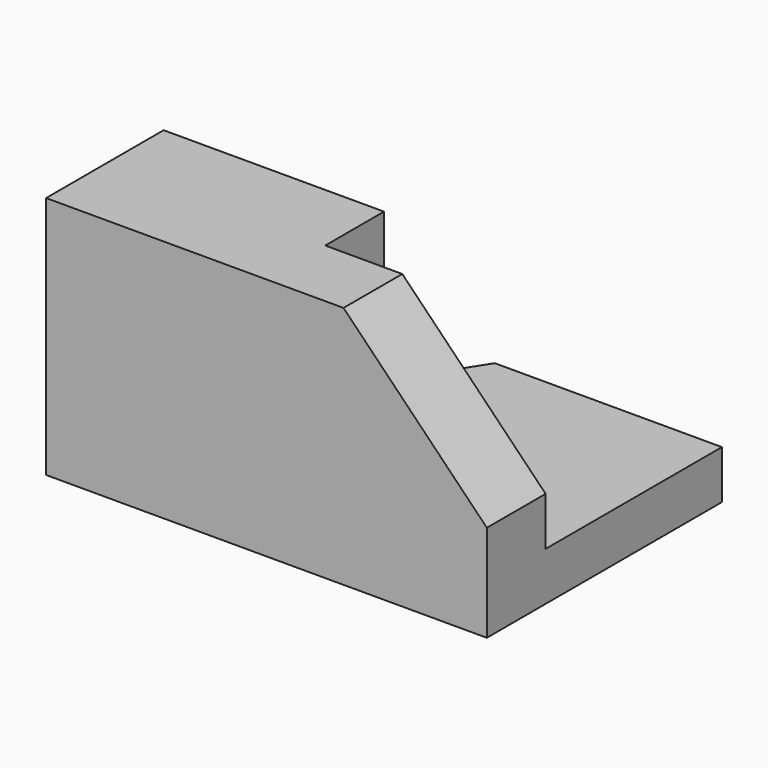
from build123d import *

# Parameters (mm, degrees)
F0_W      = 60
F0_H      = 33.1892187767
F1_DEPTH  = 40
F3_DEPTH  = 41.91
F5_DEPTH  = 30
F6_DEPTH  = 20
F8_DEPTH  = 25.4
F10_DEPTH = 25.4


with BuildPart() as f1:
    # F0 (on Front) → F1 (new body)
    with BuildSketch(Plane.XZ):
        with Locations((-30, -16.5946093883)):
            Rectangle(F0_W, F0_H)
    extrude(amount=F1_DEPTH)

    # F2 (on Front) → F3 (cut)
    with BuildSketch(Plane.XZ):
        Polygon((0, -20), (0, 0), (-19.5117478243, 0), align=None)
    extrude(amount=F3_DEPTH, mode=Mode.SUBTRACT)

    # F4 (on face) → F5 (cut)
    with BuildSketch(Plane(origin=(0, 0, 0), x_dir=(-1, 0, 0), z_dir=(0, 1, 0))):
        Polygon((0, -20), (0, -26.5946093883), (50, -26.5946093883), (50, -33.1892187767), (60, -33.1892187767), (60, -6.581982132), (30, -6.581982132), (30, 0), (19.5117478243, 0), align=None)
    extrude(amount=-F5_DEPTH, mode=Mode.SUBTRACT)

    # F6 (cut): a face of the model
    f6_faces = [f1.faces().sort_by_distance(p)[0] for p in [
        (-45, 0, -3.290991066),
    ]]
    extrude(f6_faces, amount=-F6_DEPTH, mode=Mode.SUBTRACT)

    # F7 (on face) → F8 (cut)
    with BuildSketch(Plane.XY.offset(-26.5946093883)):
        Polygon((-50, 0), (-50, -30), (-30.9202261269, 0), align=None)
    extrude(amount=-F8_DEPTH, mode=Mode.SUBTRACT)

    # F9 (on face) → F10 (cut)
    with BuildSketch(Plane(origin=(0, 0, -33.1892187767), x_dir=(1, 0, 0), z_dir=(0, 0, -1))):
        Polygon((-25.575999478, 16.2872133739), (-16.1481829174, 16.2872133739), (-16.1481829174, 25.2565963231), (-26.1481829174, 25.2565963231), align=None)
    extrude(amount=-F10_DEPTH, mode=Mode.SUBTRACT)


solid = f1.part
